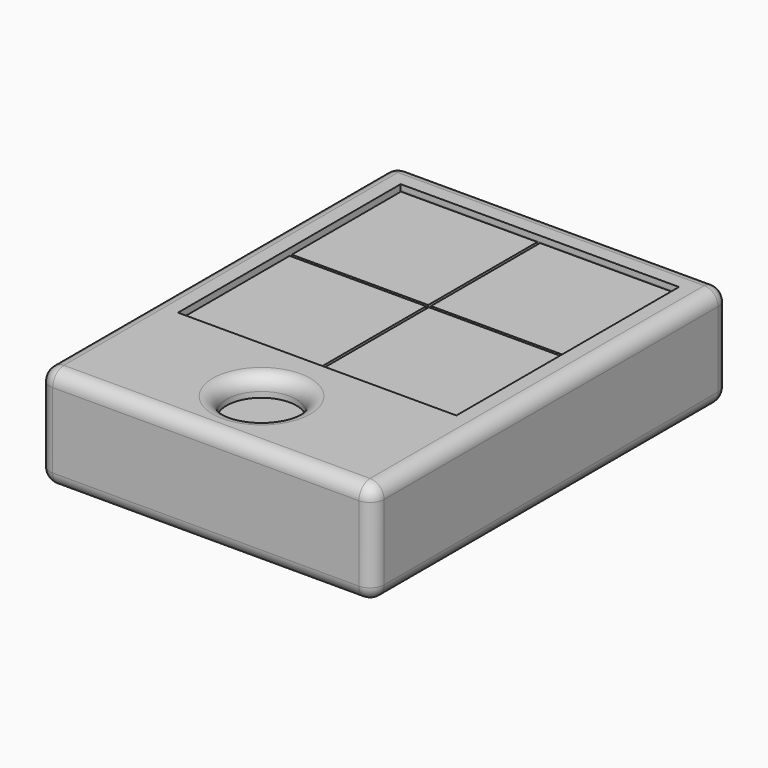
from build123d import *

# Parameters (mm, degrees)
F0_W      = 100
F0_H      = 100
F1_DEPTH  = 10
F2_W      = 100
F2_H      = 5
F3_DEPTH  = 50
F4_W      = 100
F4_H      = 50
F5_DEPTH  = 2
F7_DEPTH  = 10
F8_W      = 10
F8_H      = 100
F9_DEPTH  = 2
F11_DEPTH = 10
F12_W     = 100
F12_H     = 10.0225633383
F13_DEPTH = 2
F15_DEPTH = 10
F16_W     = 10
F16_H     = 99.9774366617
F17_DEPTH = 2
F19_DEPTH = 10
F20_W     = 10
F20_H     = 100
F21_DEPTH = 5
F22_R     = 12.5
F23_DEPTH = 7.00859
F24_W     = 100
F24_H     = 100
F24_W_2   = 99
F24_H_2   = 98.9774366617
F25_DEPTH = 10
F26_W     = 120
F26_H     = 160
F26_W_2   = 110
F26_H_2   = 150
F27_DEPTH = 30
F28_W     = 150
F28_H     = 5
F29_DEPTH = 110
F30_R     = 5


with BuildPart() as f1:
    # F0 (on Top) → F1 (new body)
    with BuildSketch(Plane.XY):
        Rectangle(F0_W, F0_H)
    extrude(amount=F1_DEPTH)

    # F2 (on face) → F3 (join)
    with BuildSketch(Plane.XZ.offset(50)):
        with Locations((0, 7.5)):
            Rectangle(F2_W, F2_H)
    extrude(amount=F3_DEPTH)

    # F4 (on face) → F5 (join)
    with BuildSketch(Plane.XY.offset(10)):
        with Locations((0, -75)):
            Rectangle(F4_W, F4_H)
    extrude(amount=F5_DEPTH)

    # F6 (on face) → F7 (join)
    with BuildSketch(Plane.YZ.offset(50)):
        Polygon((-100, 5), (-50, 5), (50, 5), (50, 10), (-50, 10), (-50, 12), (-100, 12), align=None)
    extrude(amount=F7_DEPTH)

    # F8 (on face) → F9 (join)
    with BuildSketch(Plane.XY.offset(10)):
        with Locations((55, 0)):
            Rectangle(F8_W, F8_H)
    extrude(amount=F9_DEPTH)

    # F10 (on face) → F11 (join)
    with BuildSketch(Plane(origin=(0, 50, 0), x_dir=(-1, 0, 0), z_dir=(0, 1, 0))):
        Polygon((-60, 5), (-50, 5), (50, 5), (50, 10), (-50, 10), (-50, 12), (-60, 12), align=None)
    extrude(amount=F11_DEPTH)

    # F12 (on face) → F13 (join)
    with BuildSketch(Plane.XY.offset(10)):
        with Locations((0, 54.9887183309)):
            Rectangle(F12_W, F12_H)
    extrude(amount=F13_DEPTH)

    # F14 (on face) → F15 (join)
    with BuildSketch(Plane(origin=(-50, 0, 0), x_dir=(0, -1, 0), z_dir=(-1, 0, 0))):
        Polygon((-60, 5), (-50, 5), (-50, 0), (50, 0), (50, 5), (100, 5), (100, 12), (50, 12), (50, 10), (-49.9774366617, 10), (-49.9774366617, 12), (-60, 12), align=None)
    extrude(amount=F15_DEPTH)

    # F16 (on face) → F17 (join)
    with BuildSketch(Plane.XY.offset(10)):
        with Locations((-55, -0.0112816691)):
            Rectangle(F16_W, F16_H)
    extrude(amount=F17_DEPTH)

    # F18 (on face) → F19 (cut)
    with BuildSketch(Plane.XY.offset(10)):
        Polygon((-0.5, -50), (0.5, -50), (0.5, -0.5), (50, -0.5), (50, 0.4774366617), (0.5, 0.4774366617), (0.5, 49.9774366617), (-0.5, 49.9774366617), (-0.5, 0.4774366617), (-50, 0.4774366617), (-50, -0.5), (-0.5, -0.5), align=None)
    extrude(amount=-F19_DEPTH, mode=Mode.SUBTRACT)

    # F20 (on face) → F21 (cut)
    with BuildSketch(Plane(origin=(0, 0, 0), x_dir=(1, 0, 0), z_dir=(0, 0, -1))):
        with Locations((-55, 0)):
            Rectangle(F20_W, F20_H)
    extrude(amount=-F21_DEPTH, mode=Mode.SUBTRACT)

    # F22 (on face) → F23 (cut)
    with BuildSketch(Plane.XY.offset(12)):
        with Locations((0, -75)):
            Circle(F22_R)
    extrude(amount=-F23_DEPTH, mode=Mode.SUBTRACT)

    # F24 (on face) → F25 (cut)
    with BuildSketch(Plane.XY.offset(10)):
        Rectangle(F24_W, F24_H)
        with Locations((0, -0.0112816691)):
            Rectangle(F24_W_2, F24_H_2, mode=Mode.SUBTRACT)
    extrude(amount=-F25_DEPTH, mode=Mode.SUBTRACT)

    # F26 (on face) → F27 (join)
    with BuildSketch(Plane(origin=(0, 0, 5), x_dir=(1, 0, 0), z_dir=(0, 0, -1))):
        with Locations((0, 20)):
            Rectangle(F26_W, F26_H)
        with Locations((0, 20)):
            Rectangle(F26_W_2, F26_H_2, mode=Mode.SUBTRACT)
    extrude(amount=F27_DEPTH)

    # F28 (on face) → F29 (join)
    with BuildSketch(Plane(origin=(55, 0, 0), x_dir=(0, -1, 0), z_dir=(-1, 0, 0))):
        with Locations((20, -22.5)):
            Rectangle(F28_W, F28_H)
    extrude(amount=F29_DEPTH)

    # F30
    f30_edges = [f1.edges().sort_by_distance(p)[0] for p in [
        (60, -20, 12),
        (60, -20, -25),
        (60, -100, -6.5),
        (0, -100, 12),
        (0, -100, -25),
        (-60, -20, -25),
        (-60, -100, -6.5),
        (-60, -20, 12),
        (-60, 60, -6.5),
        (0, 60, 12),
        (0, 60, -25),
        (60, 60, -6.5),
        (-12.5, -75, 12),
    ]]
    fillet(f30_edges, radius=F30_R)


solid = f1.part
